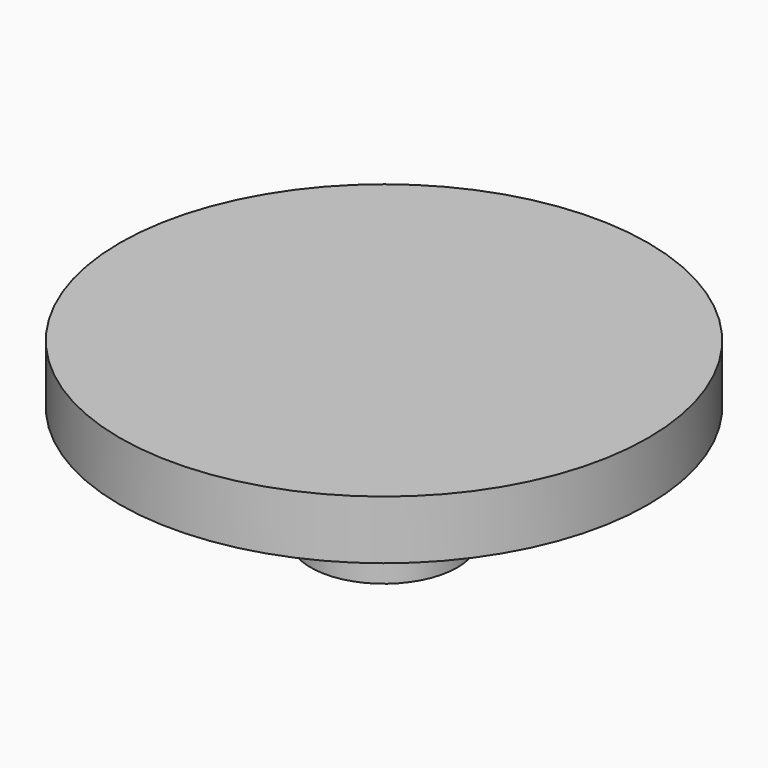
from build123d import *

# Parameters (mm, degrees)
F0_R     = 0.635
F1_DEPTH = 1.016
F2_R     = 2.286
F2_R_2   = 0.635
F3_DEPTH = 0.508


with BuildPart() as f1:
    # F0 (on Top) → F1 (new body)
    with BuildSketch(Plane.XY):
        Circle(F0_R)
    extrude(amount=F1_DEPTH)

    # F2 (on face) → F3 (join)
    with BuildSketch(Plane.XY.offset(1.016)):
        Circle(F2_R)
        Circle(F2_R_2, mode=Mode.SUBTRACT)
        Circle(F2_R_2)
    extrude(amount=F3_DEPTH)


solid = f1.part
